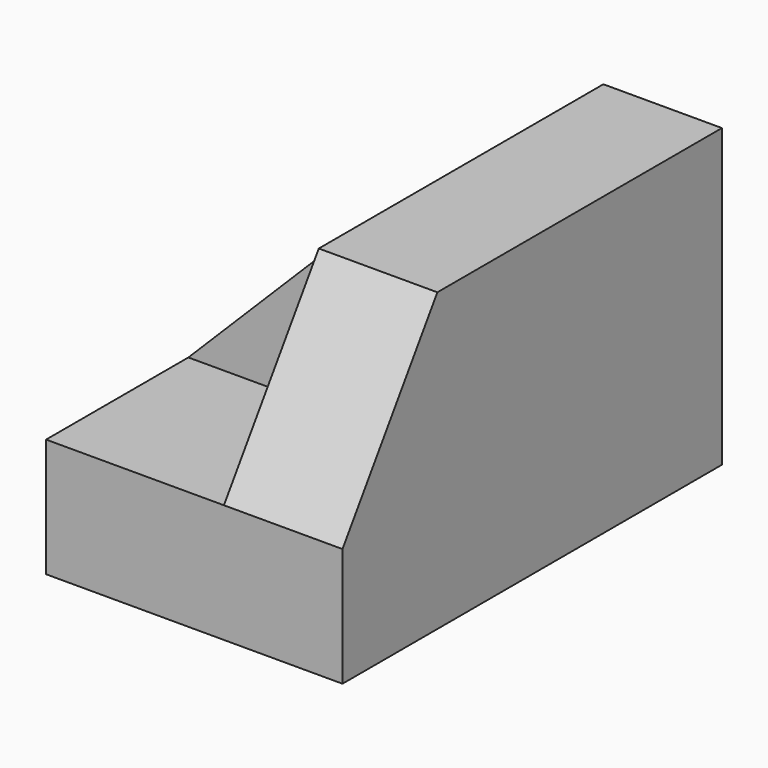
from build123d import *

# Parameters (mm, degrees)
F0_W     = 31.75
F0_H     = 50.8
F1_DEPTH = 31.75
F2_W     = 19.05
F2_H     = 19.05
F3_DEPTH = 19.05
F5_DEPTH = 25.4
F7_DEPTH = 25.4


with BuildPart() as f1:
    # F0 (on Top) → F1 (new body)
    with BuildSketch(Plane.XY):
        with Locations((15.875, 25.4)):
            Rectangle(F0_W, F0_H)
    extrude(amount=F1_DEPTH)

    # F2 (on face) → F3 (cut)
    with BuildSketch(Plane.XY.offset(31.75)):
        with Locations((9.525, 41.275)):
            Rectangle(F2_W, F2_H)
        with Locations((9.525, 9.525)):
            Rectangle(F2_W, F2_H)
    extrude(amount=-F3_DEPTH, mode=Mode.SUBTRACT)

    # F4 (on face) → F5 (cut)
    with BuildSketch(Plane.XZ.offset(-19.05)):
        Polygon((0, 31.75), (0, 12.7), (19.05, 31.75), align=None)
    extrude(amount=-F5_DEPTH, mode=Mode.SUBTRACT)

    # F6 (on face) → F7 (cut)
    with BuildSketch(Plane(origin=(19.05, 0, 0), x_dir=(0, -1, 0), z_dir=(-1, 0, 0))):
        Polygon((0, 12.7), (0, 31.75), (-12.7, 31.75), align=None)
    extrude(amount=-F7_DEPTH, mode=Mode.SUBTRACT)


solid = f1.part
